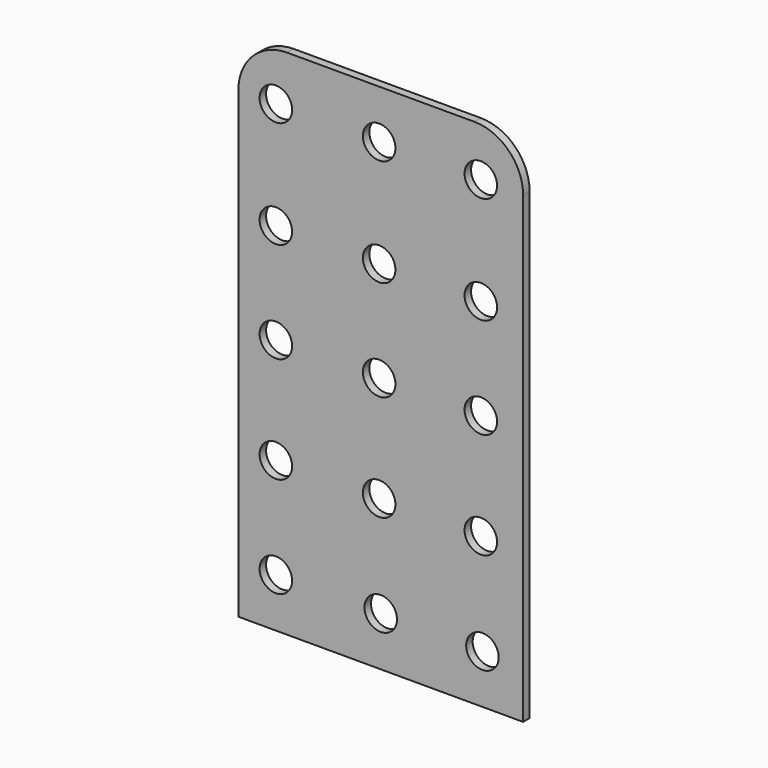
from build123d import *

# Parameters (mm, degrees)
F0_R     = 2
F1_DEPTH = 1


with BuildPart() as f1:
    # F0 (on Front) → F1 (new body)
    with BuildSketch(Plane.XZ):
        with BuildLine():
            Line((-29.337, 35.529376), (-29.337, -21.470624))
            Line((-29.337, -21.470624), (-11.837, -21.470624))
            Line((-11.837, -21.470624), (5.663, -21.470624))
            Line((5.663, -21.470624), (5.663, 35.529376))
            ThreePointArc((5.663, 35.529376), (3.905641, 39.772016), (-0.337, 41.529376))
            Line((-0.337, 41.529376), (-23.337, 41.529376))
            ThreePointArc((-23.337, 41.529376), (-27.579641, 39.772016), (-29.337, 35.529376))
        make_face()
        with Locations((-24.733006, -15.428377)):
            Circle(F0_R, mode=Mode.SUBTRACT)
        with Locations((-24.733006, -3.055113)):
            Circle(F0_R, mode=Mode.SUBTRACT)
        with Locations((-24.733007, 9.980365)):
            Circle(F0_R, mode=Mode.SUBTRACT)
        with Locations((-12.035008, -3.055113)):
            Circle(F0_R, mode=Mode.SUBTRACT)
        with Locations((-12.034999, 9.980365)):
            Circle(F0_R, mode=Mode.SUBTRACT)
        with Locations((-11.837, -15.428377)):
            Circle(F0_R, mode=Mode.SUBTRACT)
        with Locations((0.663, -15.470624)):
            Circle(F0_R, mode=Mode.SUBTRACT)
        with Locations((0.464992, -3.055113)):
            Circle(F0_R, mode=Mode.SUBTRACT)
        with Locations((0.465001, 9.980365)):
            Circle(F0_R, mode=Mode.SUBTRACT)
        with Locations((-24.733007, 22.353629)):
            Circle(F0_R, mode=Mode.SUBTRACT)
        with Locations((-12.035008, 22.353629)):
            Circle(F0_R, mode=Mode.SUBTRACT)
        with Locations((-24.733006, 35.529375)):
            Circle(F0_R, mode=Mode.SUBTRACT)
        with Locations((-12.035008, 35.529375)):
            Circle(F0_R, mode=Mode.SUBTRACT)
        with Locations((0.464992, 22.353629)):
            Circle(F0_R, mode=Mode.SUBTRACT)
        with Locations((0.464992, 35.529375)):
            Circle(F0_R, mode=Mode.SUBTRACT)
    extrude(amount=F1_DEPTH)


solid = f1.part
